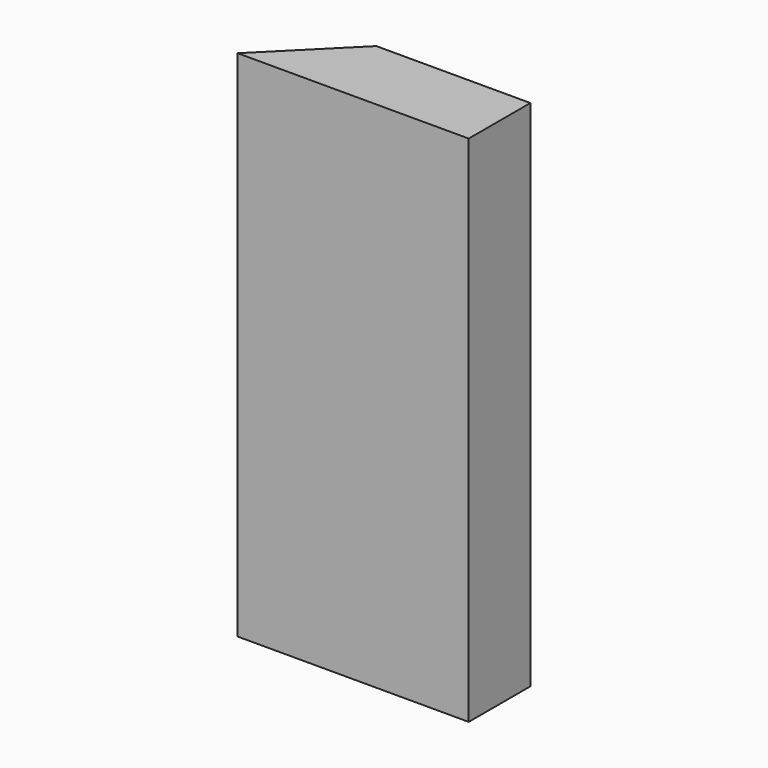
from build123d import *

# Parameters (mm, degrees)
F0_W     = 114.3
F0_H     = 38.1
F1_DEPTH = 254
F3_DEPTH = 279.4


with BuildPart() as f1:
    # F0 (on Top) → F1 (new body)
    with BuildSketch(Plane.XY):
        with Locations((57.15, -19.05)):
            Rectangle(F0_W, F0_H)
    extrude(amount=F1_DEPTH)

    # F2 (on face) → F3 (cut)
    with BuildSketch(Plane.XY.offset(254)):
        Polygon((0, 0), (0, -38.1), (38.1, 0), align=None)
    extrude(amount=-F3_DEPTH, mode=Mode.SUBTRACT)


solid = f1.part
